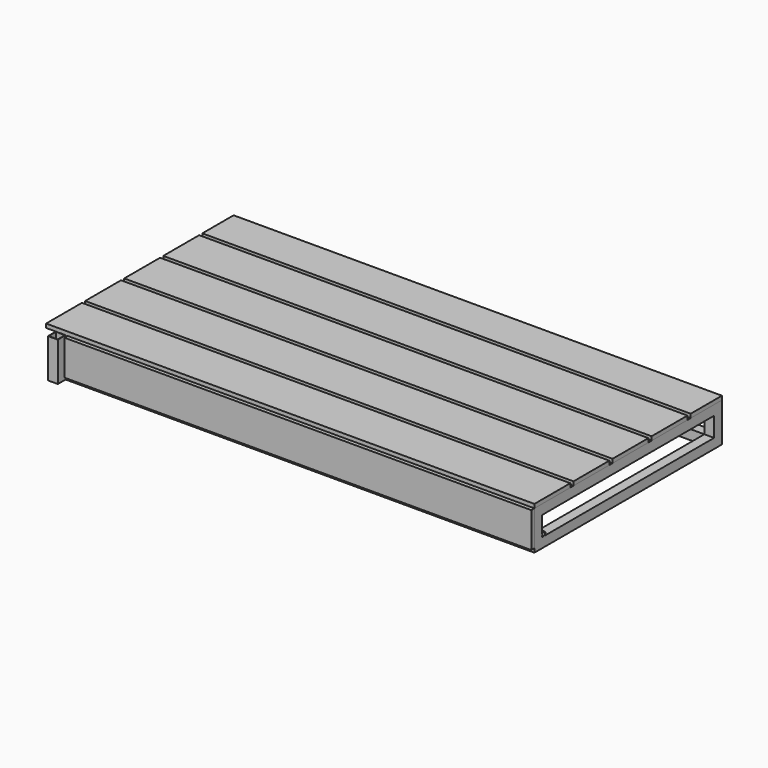
from build123d import *

# Parameters (mm, degrees)
F0_W      = 50
F0_H      = 50
F0_H_2    = 1100
F1_DEPTH  = 50
F2_W      = 50
F2_H      = 50
F3_DEPTH  = 100
F4_W      = 2450
F4_H      = 1200
F4_W_2    = 25
F4_H_2    = 1100
F4_W_3    = 50
F5_DEPTH  = 50
F6_R      = 9
F7_DEPTH  = 2450
F9_DEPTH  = 20
F10_W     = 2500
F10_H     = 1200
F11_DEPTH = 20
F12_DEPTH = 110
F13_W     = 50
F13_H     = 50
F14_DEPTH = 5
F15_W     = 2
F15_H     = 2
F15_W_2   = 46
F15_H_2   = 46
F16_DEPTH = 195
F17_W     = 20.458304882
F17_H     = 20
F18_DEPTH = 2500


with BuildPart() as f1:
    # F0 (on Top) → F1 (new body)
    with BuildSketch(Plane.XY):
        with Locations((1200, -575)):
            Rectangle(F0_W, F0_H)
        Polygon((-1175, -600), (1175, -600), (1175, -550), (25, -550), (0, -550), (-25, -550), (-1175, -550), align=None)
        with Locations((1200, 0)):
            Rectangle(F0_W, F0_H_2)
        with Locations((-1200, -575)):
            Rectangle(F0_W, F0_H)
        with Locations((1200, 575)):
            Rectangle(F0_W, F0_H)
        with Locations((-1200, 0)):
            Rectangle(F0_W, F0_H_2)
        Polygon((25, 550), (1175, 550), (1175, 600), (-1175, 600), (-1175, 550), (-25, 550), (0, 550), align=None)
        with Locations((-1200, 575)):
            Rectangle(F0_W, F0_H)
        Polygon((0, -550), (25, -550), (25, 0), (25, 550), (0, 550), (0, 0), align=None)
        Polygon((-25, 0), (-25, -550), (0, -550), (0, 0), (0, 550), (-25, 550), align=None)
    extrude(amount=F1_DEPTH)

    # F2 (on face) → F3 (join)
    with BuildSketch(Plane.XY.offset(50)):
        with Locations((0, 575)):
            Rectangle(F2_W, F2_H)
        with Locations((-1200, 575)):
            Rectangle(F2_W, F2_H)
        with Locations((-1200, -575)):
            Rectangle(F2_W, F2_H)
        with Locations((0, -575)):
            Rectangle(F2_W, F2_H)
        with Locations((1200, -575)):
            Rectangle(F2_W, F2_H)
        with Locations((1200, 575)):
            Rectangle(F2_W, F2_H)
    extrude(amount=F3_DEPTH)

    # F4 (on face) → F5 (join)
    with BuildSketch(Plane.XY.offset(150)):
        Rectangle(F4_W, F4_H)
        Polygon((1175, 550), (1175, -550), (625, -550), (600, -550), (575, -550), (25, -550), (-25, -550), (-575, -550), (-600, -550), (-625, -550), (-1175, -550), (-1175, 550), (-625, 550), (-600, 550), (-575, 550), (-25, 550), (25, 550), (575, 550), (600, 550), (625, 550), align=None, mode=Mode.SUBTRACT)
        with Locations((-587.5, 0)):
            Rectangle(F4_W_2, F4_H_2)
        with Locations((-612.5, 0)):
            Rectangle(F4_W_2, F4_H_2)
        with Locations((612.5, 0)):
            Rectangle(F4_W_2, F4_H_2)
        with Locations((587.5, 0)):
            Rectangle(F4_W_2, F4_H_2)
        Rectangle(F4_W_3, F4_H_2)
    extrude(amount=F5_DEPTH)

    # F6 (on face) → F7 (join)
    with BuildSketch(Plane(origin=(-1225, 0, 0), x_dir=(0, -1, 0), z_dir=(-1, 0, 0))):
        with BuildLine():
            ThreePointArc((550.5, 60), (529.6257530394, 61.6201851746), (550, 56.7984378813))
            ThreePointArc((550, 56.7984378813), (550.3742469606, 58.3798148254), (550.5, 60))
        make_face()
        with Locations((540, 60)):
            Circle(F6_R, mode=Mode.SUBTRACT)
    extrude(amount=-F7_DEPTH)

    # F13 (on face) → F14 (join)
    with BuildSketch(Plane(origin=(0, 0, 0), x_dir=(1, 0, 0), z_dir=(0, 0, -1))):
        with Locations((-1200, 625)):
            Rectangle(F13_W, F13_H)
    extrude(amount=-F14_DEPTH)

    # F15 (on face) → F16 (join, through all)
    with BuildSketch(Plane.XY.offset(5)):
        with Locations((-1224, -601)):
            Rectangle(F15_W, F15_H)
        Polygon((-1175, -600), (-1223, -600), (-1223, -602), (-1225, -602), (-1225, -650), (-1175, -650), align=None)
        with Locations((-1200, -625)):
            Rectangle(F15_W_2, F15_H_2, mode=Mode.SUBTRACT)
    extrude(amount=F16_DEPTH)


with BuildPart() as f9:
    # F8 (on face) → F9 (new body)
    with BuildSketch(Plane.XZ.offset(600)):
        Polygon((1225, 20), (1225, 200), (-1225, 200), (-1275, 200), (-1275, 20), align=None)
    extrude(amount=F9_DEPTH)

    # F12 (cut): a face of the model
    f12_faces = [f9.faces().sort_by_distance(p)[0] for p in [
        (-1275, -610, 110),
    ]]
    extrude(f12_faces, amount=-F12_DEPTH, mode=Mode.SUBTRACT)


with BuildPart() as f11:
    # F10 (on face) → F11 (new body)
    with BuildSketch(Plane.XY.offset(200)):
        with Locations((-25, 0)):
            Rectangle(F10_W, F10_H)
    extrude(amount=F11_DEPTH)

    # F17 (on face) → F18 (cut, through all)
    with BuildSketch(Plane(origin=(-1275, 0, 0), x_dir=(0, -1, 0), z_dir=(-1, 0, 0))):
        with Locations((610.229152441, 210)):
            Rectangle(F17_W, F17_H)
        with Locations((360.229152441, 210)):
            Rectangle(F17_W, F17_H)
        with Locations((110.229152441, 210)):
            Rectangle(F17_W, F17_H)
        with Locations((-139.770847559, 210)):
            Rectangle(F17_W, F17_H)
        with Locations((-389.770847559, 210)):
            Rectangle(F17_W, F17_H)
    extrude(amount=-F18_DEPTH, mode=Mode.SUBTRACT)


solid = Compound([f1.part, f9.part, f11.part])
